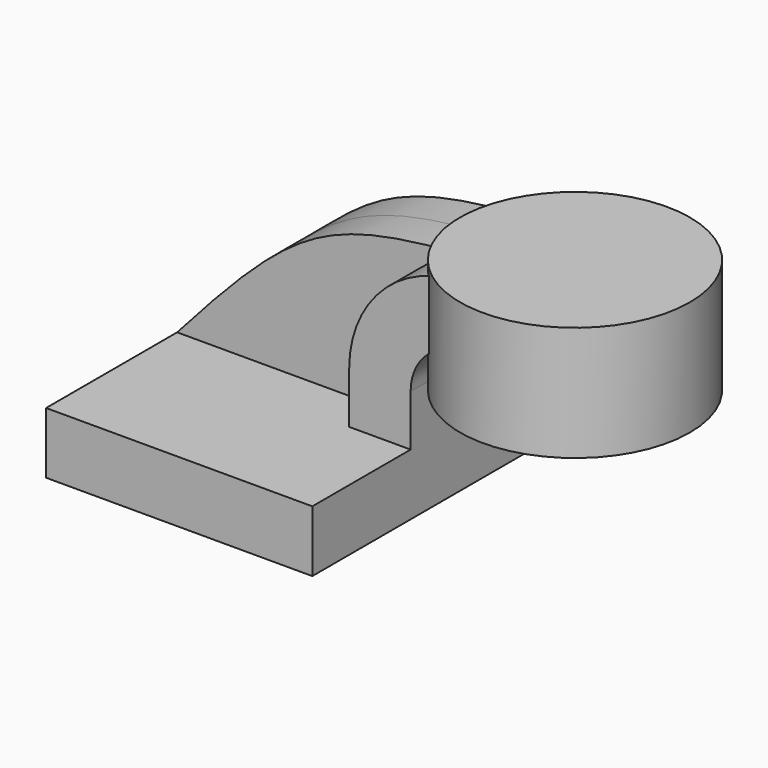
from build123d import *

# Parameters (mm, degrees)
F1_DEPTH = 63.5
F2_DEPTH = 25.4
F3_DEPTH = 12.7


with BuildPart() as f1:
    # F0 (on Front) → F1 (new body, symmetric)
    with BuildSketch(Plane.XZ):
        Polygon((41.275, -9.525), (41.275, 9.525), (22.225, 9.525), (-41.275, 9.525), (-41.275, -9.525), align=None)
    extrude(amount=F1_DEPTH, both=True)

    # F0 (on Front) → F2 (join, symmetric)
    with BuildSketch(Plane.XZ):
        with BuildLine():
            Line((22.225, 9.525), (41.275, 9.525))
            Line((41.275, 9.525), (41.275, 25.4))
            ThreePointArc((41.275, 25.4), (45.787793, 36.486744), (56.760465, 41.27022))
            Line((56.760465, 41.27022), (56.760465, 60.298004))
            add(Edge.make_bspline(
                [(52.183549, 59.970074), (53.670589, 60.080373), (55.195529, 60.189302), (56.760465, 60.298004)],
                knots=[107.086185, 107.086185, 107.086185, 107.086185, 110.480512, 110.480512, 110.480512, 110.480512], degree=3))
            ThreePointArc((52.183549, 59.970074), (30.756735, 48.272498), (22.225, 25.4))
            Line((22.225, 25.4), (22.225, 9.525))
        make_face()
    extrude(amount=F2_DEPTH, both=True)

    # F0 (on Front) → F3 (join, symmetric)
    with BuildSketch(Plane.XZ):
        with BuildLine():
            Line((-41.275, 9.525), (22.225, 9.525))
            Line((22.225, 9.525), (22.225, 25.4))
            ThreePointArc((22.225, 25.4), (30.756735, 48.272498), (52.183549, 59.970074))
            add(Edge.make_bspline(
                [(-41.275, 9.525), (-3.923113, 51.646193), (5.269544, 56.49028), (52.183549, 59.970074)],
                knots=[0, 0, 0, 0, 107.086185, 107.086185, 107.086185, 107.086185], degree=3))
        make_face()
    extrude(amount=F3_DEPTH, both=True)


with BuildPart() as f4:
    # F0 (on Front) → F4 (revolve)
    with BuildSketch(Plane.XZ):
        Polygon((71.92071, 41.275), (71.92071, 25.4), (107.560465, 25.4), (107.560465, 60.96), (71.92071, 60.96), (71.92071, 60.325), align=None)
    revolve(axis=Axis((71.92071, 0, 43.18), (0, 0, 1)))


solid = Compound([f1.part, f4.part])
